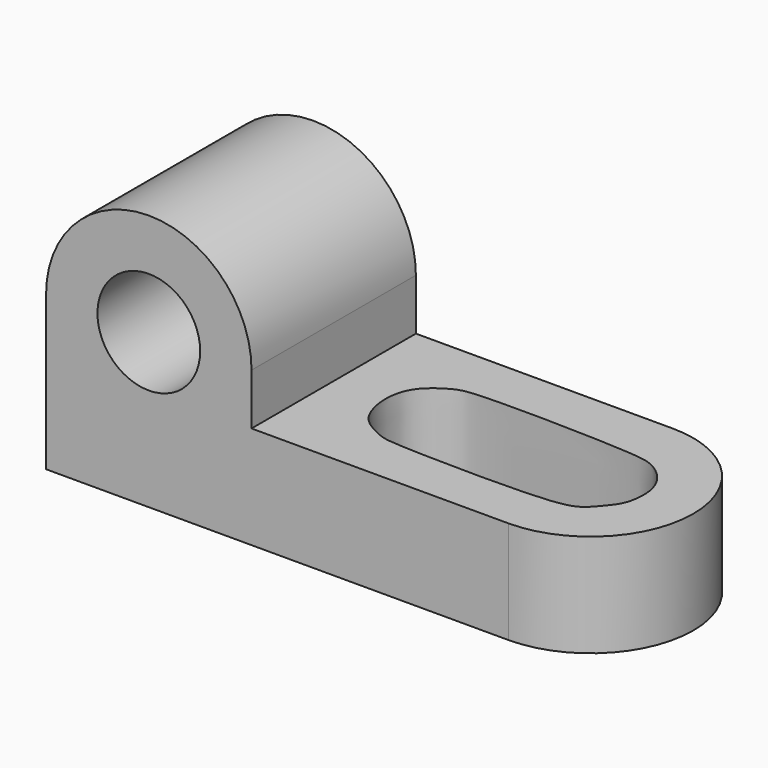
from build123d import *

# Parameters (mm, degrees)
F0_W      = 57.15
F0_H      = 12.7
F1_DEPTH  = 25.4
F3_DEPTH  = 12.7
F4_W      = 25.4
F4_H      = 25.4
F5_DEPTH  = 6.35
F7_DEPTH  = 25.4
F8_R      = 6.35
F9_DEPTH  = 25.4
F13_DEPTH = 25.4


with BuildPart() as f1:
    # F0 (on Front) → F1 (new body)
    with BuildSketch(Plane.XZ):
        with Locations((-28.575, 6.35)):
            Rectangle(F0_W, F0_H)
    extrude(amount=F1_DEPTH)

    # F2 (on face) → F3 (join)
    with BuildSketch(Plane.XY.offset(12.7)):
        with BuildLine():
            Line((0, 0), (0, -25.4))
            ThreePointArc((0, -25.4), (12.7, -12.7), (0, 0))
        make_face()
    extrude(amount=-F3_DEPTH)

    # F4 (on face) → F5 (join)
    with BuildSketch(Plane.XY.offset(12.7)):
        with Locations((-44.45, -12.7)):
            Rectangle(F4_W, F4_H)
    extrude(amount=F5_DEPTH)

    # F6 (on face) → F7 (join)
    with BuildSketch(Plane.XZ.offset(25.4)):
        with BuildLine():
            Line((-57.15, 19.05), (-31.75, 19.05))
            ThreePointArc((-31.75, 19.05), (-44.45, 31.75), (-57.15, 19.05))
        make_face()
    extrude(amount=-F7_DEPTH)

    # F8 (on face) → F9 (cut)
    with BuildSketch(Plane.XZ.offset(25.4)):
        with Locations((-44.45, 19.05)):
            Circle(F8_R)
    extrude(amount=-F9_DEPTH, mode=Mode.SUBTRACT)

    # F12 (on face) → F13 (cut)
    with BuildSketch(Plane.XY.offset(12.7)):
        with BuildLine():
            add(Edge.make_bspline(
                [(0, -6.5933372825), (-4.3335288954, -6.2425928822), (-19.2539591524, -5.9431444544), (-21.8079181697, -6.752826897), (-24.9879208085, -8.9397704012), (-25.6916656891, -12.2881912477), (-25.2552966558, -14.8920624192), (-24.1547730186, -17.3307319105), (-21.0114621664, -18.9013892718), (-19.0587997011, -19.3613408528), (0.1798145996, -19.708351866), (3.602060698, -18.4234615524), (5.144307104, -16.4225065745), (6.3237311389, -15.0129096663), (6.7458982943, -11.4689345451), (5.3299737832, -8.7170187024), (3.1207753421, -7.0563532409), (1.8197760895, -6.7406251601), (0, -6.5933372825)],
                knots=[0, 0, 0, 0, 0.1348112712, 0.1889275212, 0.2455409547, 0.3014130243, 0.3511933359, 0.4010321383, 0.4551559961, 0.5031207882, 0.6373759331, 0.6980779281, 0.743358709, 0.7851075085, 0.8417109752, 0.8957548723, 0.9433887869, 1, 1, 1, 1], degree=3))
        make_face()
    extrude(amount=-F13_DEPTH, mode=Mode.SUBTRACT)


solid = f1.part
